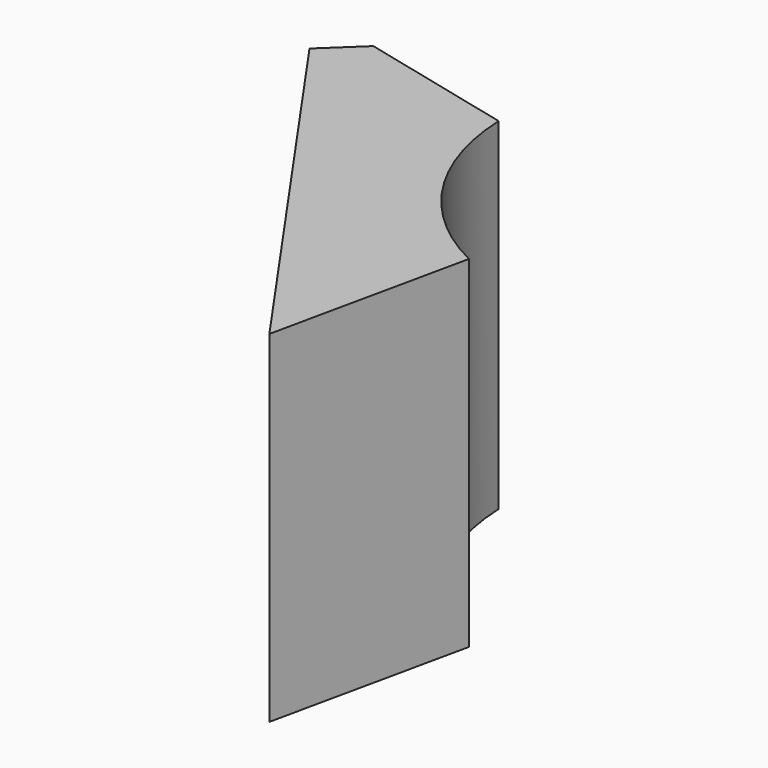
from build123d import *

# Parameters (mm, degrees)
F1_DEPTH = 68.901395
F2_R     = 46.107405
F3_DEPTH = 88.576624


with BuildPart() as f1:
    # F0 (on Top) → F1 (new body)
    with BuildSketch(Plane.XY):
        Polygon((-34.028552, 44.097133), (-41.363411, 37.160076), (14.516074, -42.812876), (29.959939, 28.512459), align=None)
        Polygon((-34.028552, 44.097133), (-41.363411, 37.160076), (14.516074, -42.812876), (29.959939, 28.512459), align=None)
    extrude(amount=F1_DEPTH)

    # F2 (on face) → F3 (cut)
    with BuildSketch(Plane.XY.offset(68.901395)):
        with Locations((43.436095, 38.187817)):
            Circle(F2_R)
    extrude(amount=-F3_DEPTH, mode=Mode.SUBTRACT)


solid = f1.part
